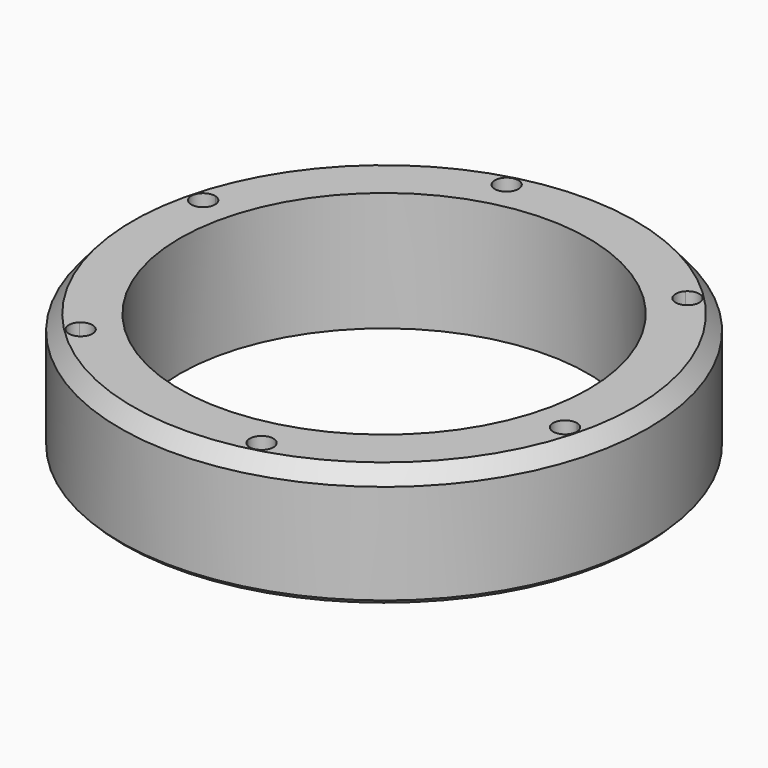
from build123d import *

# Parameters (mm, degrees)
F2_SIZE2 = 1.5748
F2_SIZE  = 1.5748
F4_DEPTH = 12.7
F5_R     = 76.2
F6_DEPTH = 44.451
F8_ANGLE = 180


with BuildPart() as f1:
    # F0 (on Front) → F1 (revolve)
    with BuildSketch(Plane.XZ):
        Polygon((98.425, 0), (0, 0), (0, -44.45), (93.726, -44.45), (98.425, -38.8499498684), align=None)
    revolve(axis=Axis((0, 0, -22.225), (0, 0, 1)))

    # F2
    f2_edges = [f1.edges().sort_by_distance(p)[0] for p in [
        (-98.425, 0, 0),
    ]]
    chamfer(f2_edges, length=F2_SIZE, length2=F2_SIZE2)

    # F3 (on face) → F4 (cut)
    with BuildSketch(Plane(origin=(0, 0, -44.45), x_dir=(1, 0, 0), z_dir=(0, 0, -1))):
        with BuildLine():
            ThreePointArc((-18.5894131096, 85.8708059571), (-18.6203916237, 86.3931713593), (-18.7128928876, 86.9082138798))
            ThreePointArc((-18.7128928876, 86.9082138798), (-23.0090131096, 85.8708059571), (-27.2482663209, 84.6211674612))
            ThreePointArc((-27.2482663209, 84.6211674612), (-22.3777205201, 81.4965250075), (-18.5894131096, 85.8708059571))
        make_face()
        with BuildLine():
            ThreePointArc((-27.2482663209, 84.6211674612), (-23.0090131096, 85.8708059571), (-18.7128928876, 86.9082138798))
            ThreePointArc((-18.7128928876, 86.9082138798), (-24.1528897613, 90.139811739), (-27.2482663209, 84.6211674612))
        make_face()
        with BuildLine():
            ThreePointArc((59.6599475589, 65.9082745736), (62.8617928475, 62.8617928475), (65.9082745736, 59.6599475589))
            ThreePointArc((65.9082745736, 59.6599475589), (66.923633243, 61.1198638129), (67.2813928475, 62.8617928475))
            ThreePointArc((67.2813928475, 62.8617928475), (64.5022179025, 66.9656775679), (59.6599475589, 65.9082745736))
        make_face()
        with BuildLine():
            ThreePointArc((59.6599475589, 65.9082745736), (59.7366637174, 59.7366637174), (65.9082745736, 59.6599475589))
            ThreePointArc((65.9082745736, 59.6599475589), (62.8617928475, 62.8617928475), (59.6599475589, 65.9082745736))
        make_face()
        with BuildLine():
            ThreePointArc((-86.9082138798, 18.7128928876), (-85.8708059571, 23.0090131096), (-84.6211674612, 27.2482663209))
            ThreePointArc((-84.6211674612, 27.2482663209), (-90.139811739, 24.1528897613), (-86.9082138798, 18.7128928876))
        make_face()
        with BuildLine():
            ThreePointArc((-81.4512059571, 23.0090131096), (-82.3313309638, 25.6557055609), (-84.6211674612, 27.2482663209))
            ThreePointArc((-84.6211674612, 27.2482663209), (-85.8708059571, 23.0090131096), (-86.9082138798, 18.7128928876))
            ThreePointArc((-86.9082138798, 18.7128928876), (-83.1369500625, 19.5364209787), (-81.4512059571, 23.0090131096))
        make_face()
        with BuildLine():
            ThreePointArc((-65.9082745736, -59.6599475589), (-62.8617928475, -62.8617928475), (-59.6599475589, -65.9082745736))
            ThreePointArc((-59.6599475589, -65.9082745736), (-58.757908127, -64.5022179025), (-58.4421928475, -62.8617928475))
            ThreePointArc((-58.4421928475, -62.8617928475), (-61.1198638129, -58.799952452), (-65.9082745736, -59.6599475589))
        make_face()
        with BuildLine():
            ThreePointArc((-65.9082745736, -59.6599475589), (-65.9869219776, -65.9869219776), (-59.6599475589, -65.9082745736))
            ThreePointArc((-59.6599475589, -65.9082745736), (-62.8617928475, -62.8617928475), (-65.9082745736, -59.6599475589))
        make_face()
        with BuildLine():
            ThreePointArc((18.7128928876, -86.9082138798), (23.0090131096, -85.8708059571), (27.2482663209, -84.6211674612))
            ThreePointArc((27.2482663209, -84.6211674612), (21.8651364579, -81.6018001752), (18.7128928876, -86.9082138798))
        make_face()
        with BuildLine():
            ThreePointArc((27.4286131096, -85.8708059571), (27.3832940593, -85.2395133675), (27.2482663209, -84.6211674612))
            ThreePointArc((27.2482663209, -84.6211674612), (23.0090131096, -85.8708059571), (18.7128928876, -86.9082138798))
            ThreePointArc((18.7128928876, -86.9082138798), (23.5313785118, -90.259427443), (27.4286131096, -85.8708059571))
        make_face()
        with BuildLine():
            ThreePointArc((84.6211674612, -27.2482663209), (85.8708059571, -23.0090131096), (86.9082138798, -18.7128928876))
            ThreePointArc((86.9082138798, -18.7128928876), (81.6018001752, -21.8651364579), (84.6211674612, -27.2482663209))
        make_face()
        with BuildLine():
            ThreePointArc((90.2904059571, -23.0090131096), (89.343398088, -20.275157215), (86.9082138798, -18.7128928876))
            ThreePointArc((86.9082138798, -18.7128928876), (85.8708059571, -23.0090131096), (84.6211674612, -27.2482663209))
            ThreePointArc((84.6211674612, -27.2482663209), (88.5174984084, -26.5484881029), (90.2904059571, -23.0090131096))
        make_face()
    extrude(amount=-F4_DEPTH, mode=Mode.SUBTRACT)

    # F5 (on face) → F6 (cut, through all)
    with BuildSketch(Plane.XY):
        Circle(F5_R)
    extrude(amount=-F6_DEPTH, mode=Mode.SUBTRACT)


with BuildPart() as f1_1:
    # F8: moved
    add(f1.part.rotate(Axis((4.3097957969, 0, 0), (-1, 0, 0)), F8_ANGLE))


with BuildPart() as f1_2:
    # F9: moved
    add(f1_1.part.moved(Location((0, 0, -44.45))))


solid = f1_2.part
